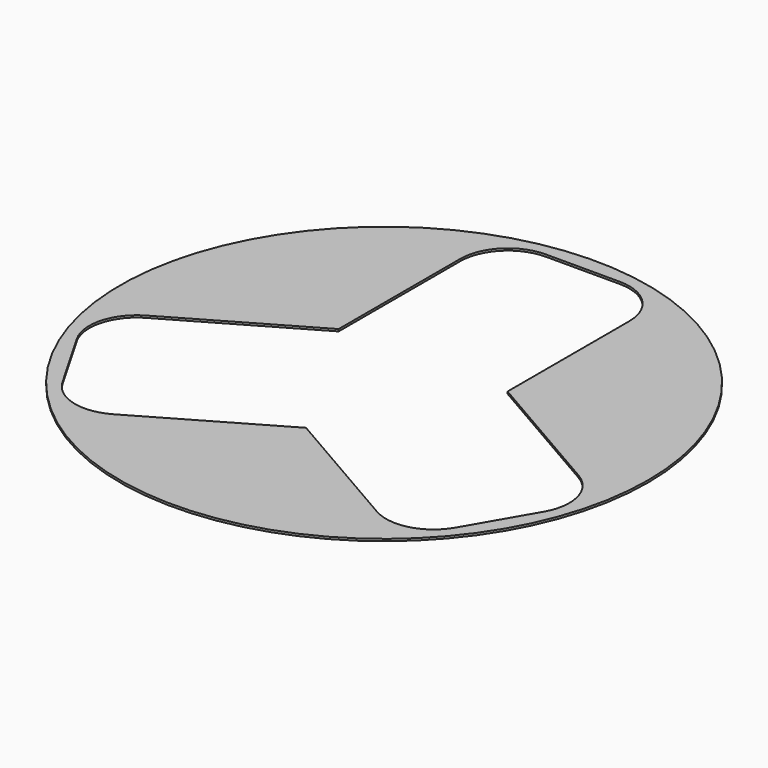
from build123d import *

# Parameters (mm, degrees)
F1_R     = 50
F2_DEPTH = 0.4


with BuildPart() as f2:
    # F1 (on Top) → F2 (new body)
    with BuildSketch(Plane.XY):
        Circle(F1_R)
        with BuildLine():
            Line((-40.961211, -5.173758), (-16, 9.237604))
            Line((-16, 9.237604), (-16, 38.060328))
            ThreePointArc((-16, 38.060328), (-13.363961, 44.42429), (-7, 47.060328))
            Line((-7, 47.060328), (7, 47.060328))
            ThreePointArc((7, 47.060328), (13.363961, 44.42429), (16, 38.060328))
            Line((16, 38.060328), (16, 9.237604))
            Line((16, 9.237604), (40.961211, -5.173758))
            ThreePointArc((40.961211, -5.173758), (45.154544, -10.638615), (44.25544, -17.467986))
            Line((44.25544, -17.467986), (37.25544, -29.592342))
            ThreePointArc((37.25544, -29.592342), (31.790583, -33.785675), (24.961211, -32.886571))
            Line((24.961211, -32.886571), (0, -18.475209))
            Line((0, -18.475209), (-24.961211, -32.886571))
            ThreePointArc((-24.961211, -32.886571), (-31.790583, -33.785675), (-37.25544, -29.592342))
            Line((-37.25544, -29.592342), (-44.25544, -17.467986))
            ThreePointArc((-44.25544, -17.467986), (-45.154544, -10.638615), (-40.961211, -5.173758))
        make_face(mode=Mode.SUBTRACT)
    extrude(amount=F2_DEPTH)


solid = f2.part
